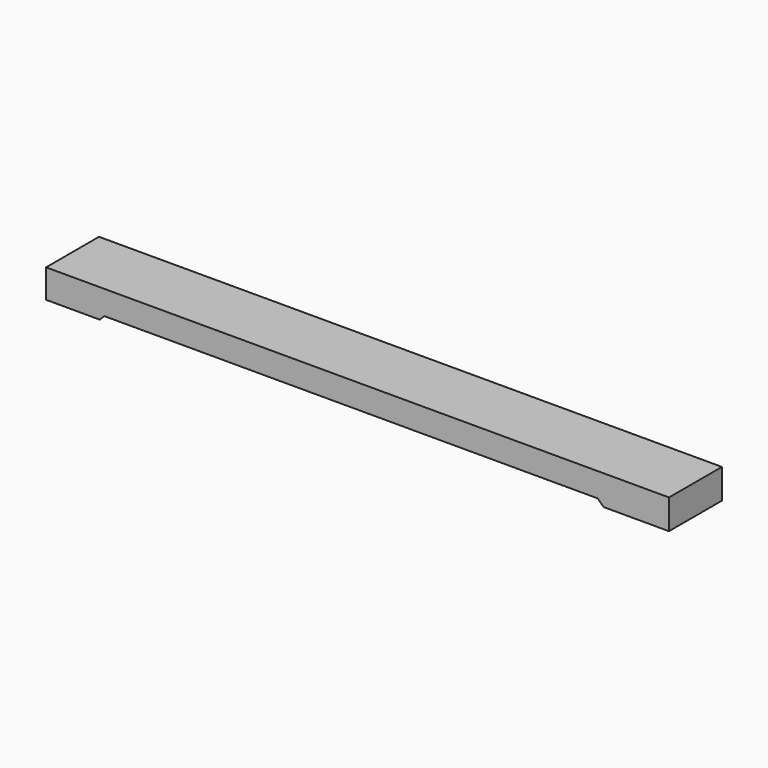
from build123d import *

# Parameters (mm, degrees)
SKETCH034_W      = 10444
SKETCH034_H      = 580
EXTRUDE033_DEPTH = 552
EXTRUDE012_DEPTH = 555


with BuildPart() as extrude033:
    # Sketch034 → Extrude033 (new body, symmetric)
    with BuildSketch(Plane.XZ):
        with Locations((4625, 84)):
            Rectangle(SKETCH034_W, SKETCH034_H)
    extrude(amount=EXTRUDE033_DEPTH, both=True)


with BuildPart() as cut:
    # Sketch020 → Extrude012 (new body, symmetric)
    with BuildSketch(Plane.XZ):
        Polygon((-600, -103), (-600, 377), (9850, 377), (9850, -122), (8750, -122), (8654, -26), (377, -26), (300, -103), align=None)
    extrude(amount=EXTRUDE012_DEPTH, both=True)

    # Cut: cut Extrude033
    add(extrude033.part, mode=Mode.SUBTRACT)


solid = cut.part
